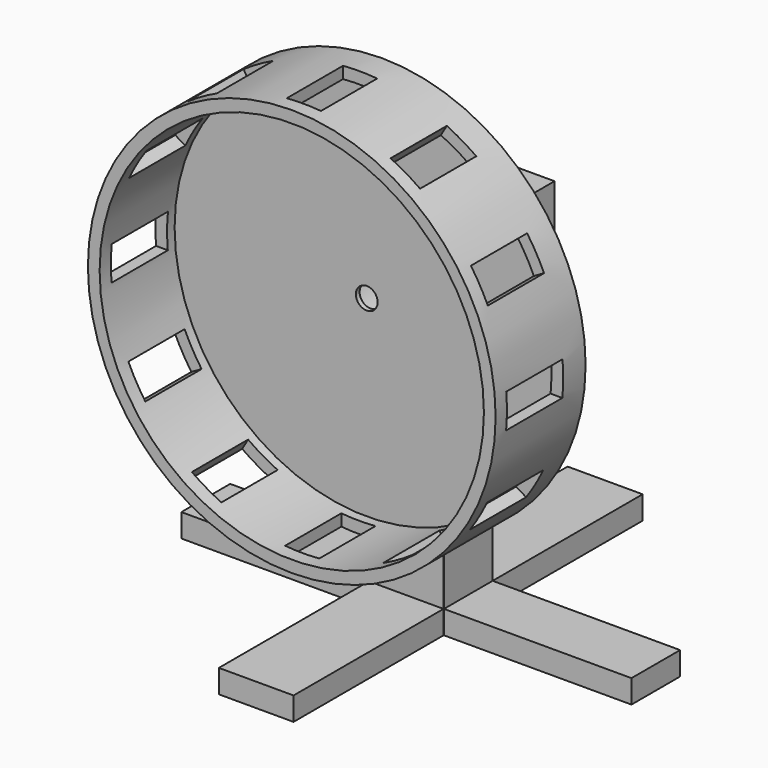
from build123d import *

# Parameters (mm, degrees)
F0_R      = 52.07
F1_DEPTH  = 5.08
F0_R_2    = 55.245
F2_DEPTH  = 30.48
F4_DEPTH  = 21.59
F5_W      = 9.2520020868
F5_H      = 19.05
F6_DEPTH  = 50.8
F7_W      = 9.2520020868
F7_H      = 19.05
F8_DEPTH  = 50.8
F9_W      = 9.2520020868
F9_H      = 19.05
F10_DEPTH = 50.8
F11_W     = 19.05
F11_H     = 9.2520020868
F12_DEPTH = 50.8
F13_W     = 19.05
F13_H     = 9.2520020868
F14_DEPTH = 50.8
F15_W     = 19.05
F15_H     = 9.2520020868
F16_DEPTH = 50.8
F17_W     = 9.2520020868
F17_H     = 19.05
F18_DEPTH = 50.8
F19_W     = 9.2520020868
F19_H     = 19.05
F20_DEPTH = 50.8
F21_W     = 9.2520020868
F21_H     = 19.05
F22_DEPTH = 50.8
F23_W     = 19.05
F23_H     = 9.2520020868
F24_DEPTH = 50.8
F25_W     = 19.05
F25_H     = 9.2520020868
F26_DEPTH = 50.8
F27_W     = 19.05
F27_H     = 9.2520020868
F28_DEPTH = 50.8
F29_W     = 40.64
F29_H     = 38.1
F30_DEPTH = 33.02
F31_DEPTH = 21.59
F33_DEPTH = 63.5
F34_W     = 20.2407714686
F34_H     = 6.3127256824
F35_DEPTH = 50.8
F36_W     = 16.5421865909
F36_H     = 6.3127256824
F37_DEPTH = 50.8
F38_W     = 20.32
F38_H     = 6.3127256824
F39_DEPTH = 50.8
F40_W     = 16.4780624607
F40_H     = 6.3127256824
F41_DEPTH = 50.8
F43_R     = 2.9464
F44_DEPTH = 1.6256
F42_R     = 11.811
F45_DEPTH = 36.83


with BuildPart() as f1:
    # F0 (on Front) → F1 (new body)
    with BuildSketch(Plane.XZ):
        Circle(F0_R)
    extrude(amount=F1_DEPTH)

    # F0 (on Front) → F2 (join)
    with BuildSketch(Plane.XZ):
        Circle(F0_R_2)
        Circle(F0_R, mode=Mode.SUBTRACT)
    extrude(amount=F2_DEPTH)

    # F3 (on face) → F4 (join)
    with BuildSketch(Plane.XZ.offset(5.08)):
        Polygon((4.5521322669, -17.2840948262), (12.5843095976, -12.6923990675), (17.2445313344, -4.6997852286), (17.2840948262, 4.5521322669), (12.6923990675, 12.5843095976), (4.6997852286, 17.2445313344), (-4.5521322669, 17.2840948262), (-12.5843095976, 12.6923990675), (-17.2445313344, 4.6997852286), (-17.2840948262, -4.5521322669), (-12.6923990675, -12.5843095976), (-4.6997852286, -17.2445313344), align=None)
    extrude(amount=F4_DEPTH)

    # F5 (on face) → F6 (cut)
    with BuildSketch(Plane(origin=(8.696092148, 0, 14.914420466), x_dir=(0.8638793813, 0, -0.5036987339), z_dir=(0.5036987339, 0, 0.8638793813))):
        with Locations((0, -17.145)):
            Rectangle(F5_W, F5_H)
    extrude(amount=F6_DEPTH, mode=Mode.SUBTRACT)

    # F7 (on face) → F8 (cut)
    with BuildSketch(Plane(origin=(0.0738264808, 0, 17.2643130803), x_dir=(0.999990857, 0, -0.0042762087), z_dir=(0.0042762087, 0, 0.999990857))):
        with Locations((0, -17.145)):
            Rectangle(F7_W, F7_H)
    extrude(amount=F8_DEPTH, mode=Mode.SUBTRACT)

    # F9 (on face) → F10 (cut)
    with BuildSketch(Plane(origin=(-8.5682209323, 0, 14.9882469469), x_dir=(0.86815559, 0, 0.4962921231), z_dir=(-0.4962921231, 0, 0.86815559))):
        with Locations((0, -17.145)):
            Rectangle(F9_W, F9_H)
    extrude(amount=F10_DEPTH, mode=Mode.SUBTRACT)

    # F11 (on face) → F12 (cut)
    with BuildSketch(Plane(origin=(-14.914420466, 0, 8.696092148), x_dir=(0, -1, 0), z_dir=(-0.8638793813, 0, 0.5036987339))):
        with Locations((17.145, 0)):
            Rectangle(F11_W, F11_H)
    extrude(amount=F12_DEPTH, mode=Mode.SUBTRACT)

    # F13 (on face) → F14 (cut)
    with BuildSketch(Plane(origin=(-17.2643130803, 0, 0.0738264808), x_dir=(0, -1, 0), z_dir=(-0.999990857, 0, 0.0042762087))):
        with Locations((17.145, 0)):
            Rectangle(F13_W, F13_H)
    extrude(amount=F14_DEPTH, mode=Mode.SUBTRACT)

    # F15 (on face) → F16 (cut)
    with BuildSketch(Plane(origin=(-14.9882469469, 0, -8.5682209323), x_dir=(0, -1, 0), z_dir=(-0.86815559, 0, -0.4962921231))):
        with Locations((17.145, 0)):
            Rectangle(F15_W, F15_H)
    extrude(amount=F16_DEPTH, mode=Mode.SUBTRACT)

    # F17 (on face) → F18 (cut)
    with BuildSketch(Plane(origin=(-8.696092148, 0, -14.914420466), x_dir=(0.8638793813, 0, -0.5036987339), z_dir=(-0.5036987339, 0, -0.8638793813))):
        with Locations((0, 17.145)):
            Rectangle(F17_W, F17_H)
    extrude(amount=F18_DEPTH, mode=Mode.SUBTRACT)

    # F19 (on face) → F20 (cut)
    with BuildSketch(Plane(origin=(-0.0738264808, 0, -17.2643130803), x_dir=(0.999990857, 0, -0.0042762087), z_dir=(-0.0042762087, 0, -0.999990857))):
        with Locations((0, 17.145)):
            Rectangle(F19_W, F19_H)
    extrude(amount=F20_DEPTH, mode=Mode.SUBTRACT)

    # F21 (on face) → F22 (cut)
    with BuildSketch(Plane(origin=(8.5682209323, 0, -14.9882469469), x_dir=(0.86815559, 0, 0.4962921231), z_dir=(0.4962921231, 0, -0.86815559))):
        with Locations((0, 17.145)):
            Rectangle(F21_W, F21_H)
    extrude(amount=F22_DEPTH, mode=Mode.SUBTRACT)

    # F23 (on face) → F24 (cut)
    with BuildSketch(Plane(origin=(14.914420466, 0, -8.696092148), x_dir=(0, 1, 0), z_dir=(0.8638793813, 0, -0.5036987339))):
        with Locations((-17.145, 0)):
            Rectangle(F23_W, F23_H)
    extrude(amount=F24_DEPTH, mode=Mode.SUBTRACT)

    # F25 (on face) → F26 (cut)
    with BuildSketch(Plane(origin=(17.2643130803, 0, -0.0738264808), x_dir=(0, 1, 0), z_dir=(0.999990857, 0, -0.0042762087))):
        with Locations((-17.145, 0)):
            Rectangle(F25_W, F25_H)
    extrude(amount=F26_DEPTH, mode=Mode.SUBTRACT)

    # F27 (on face) → F28 (cut)
    with BuildSketch(Plane(origin=(14.9882469469, 0, 8.5682209323), x_dir=(0, 1, 0), z_dir=(0.86815559, 0, 0.4962921231))):
        with Locations((-17.145, 0)):
            Rectangle(F27_W, F27_H)
    extrude(amount=F28_DEPTH, mode=Mode.SUBTRACT)

    # F29 (on face) → F30 (join)
    with BuildSketch(Plane.XZ):
        with Locations((0.0789208158, 0.021902828)):
            Rectangle(F29_W, F29_H)
    extrude(amount=-F30_DEPTH)

    # F31 (cut): a face of the model
    f31_faces = [f1.faces().sort_by_distance(p)[0] for p in [
        (0, -26.67, 0),
    ]]
    extrude(f31_faces, amount=-F31_DEPTH, mode=Mode.SUBTRACT)

    # F32 (on face) → F33 (join)
    with BuildSketch(Plane(origin=(0, 0, -19.028097172), x_dir=(1, 0, 0), z_dir=(0, 0, -1))):
        Polygon((-10.0810791842, -8.2228134091), (-10.0810791842, -24.765), (10.2389208158, -24.765), (10.2389208158, -8.2869375393), (10.1596922844, -8.2228134091), align=None)
    extrude(amount=F33_DEPTH)

    # F34 (on face) → F35 (join)
    with BuildSketch(Plane.XZ.offset(-8.2228134091)):
        with Locations((0.0393065501, -79.3717343307)):
            Rectangle(F34_W, F34_H)
    extrude(amount=F35_DEPTH)

    # F36 (on face) → F37 (join)
    with BuildSketch(Plane(origin=(-10.0810791842, 0, 0), x_dir=(0, -1, 0), z_dir=(-1, 0, 0))):
        with Locations((-16.4939067046, -79.3717343307)):
            Rectangle(F36_W, F36_H)
    extrude(amount=F37_DEPTH)

    # F38 (on face) → F39 (join)
    with BuildSketch(Plane(origin=(0, 24.765, 0), x_dir=(-1, 0, 0), z_dir=(0, 1, 0))):
        with Locations((-0.0789208158, -79.3717343307)):
            Rectangle(F38_W, F38_H)
    extrude(amount=F39_DEPTH)

    # F40 (on face) → F41 (join)
    with BuildSketch(Plane.YZ.offset(10.2389208158)):
        with Locations((16.5259687696, -79.3717343307)):
            Rectangle(F40_W, F40_H)
    extrude(amount=F41_DEPTH)

    # F43 (on face) → F44 (cut)
    with BuildSketch(Plane.XZ.offset(5.08)):
        Circle(F43_R)
    extrude(amount=-F44_DEPTH, mode=Mode.SUBTRACT)

    # F42 (on face) → F45 (cut)
    with BuildSketch(Plane(origin=(0, 33.02, 0), x_dir=(-1, 0, 0), z_dir=(0, 1, 0))):
        Circle(F42_R)
    extrude(amount=-F45_DEPTH, mode=Mode.SUBTRACT)


solid = f1.part
